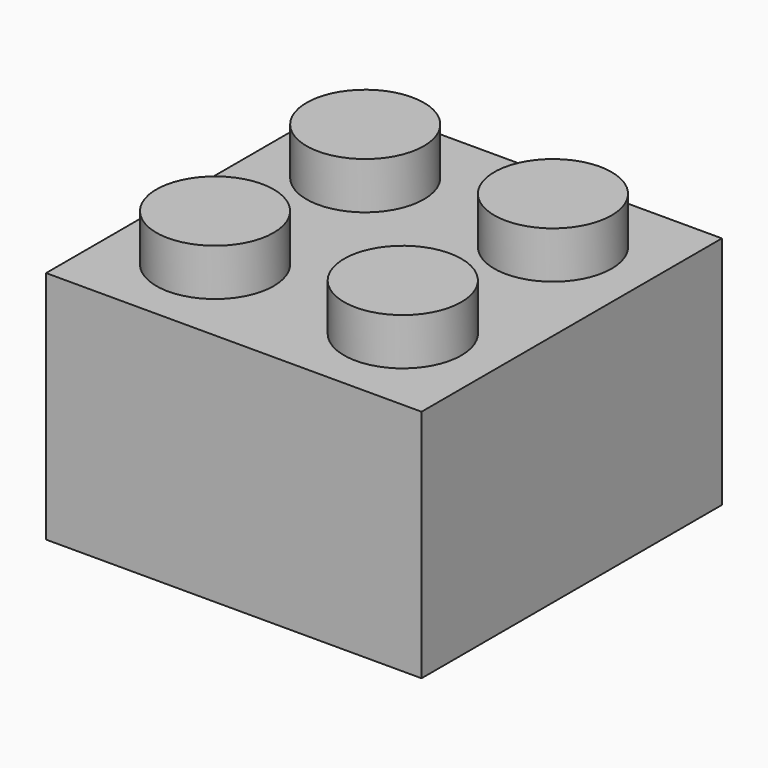
from build123d import *

# Parameters (mm, degrees)
F0_W     = 16
F0_H     = 10
F1_DEPTH = 16
F2_R     = 2.5
F3_DEPTH = 2
F5_W     = 12
F5_H     = 12
F5_R     = 3.5
F5_R_2   = 2.5
F6_DEPTH = 8
F7_R     = 1.25
F8_DEPTH = 9


with BuildPart() as f1:
    # F0 (on Front) → F1 (new body)
    with BuildSketch(Plane.XZ):
        with Locations((8, 5)):
            Rectangle(F0_W, F0_H)
    extrude(amount=F1_DEPTH)

    # F2 (on face) → F3 (join)
    with BuildSketch(Plane.XY.offset(10)):
        with Locations((4, -4)):
            Circle(F2_R)
        with Locations((12, -4)):
            Circle(F2_R)
        with Locations((4, -12)):
            Circle(F2_R)
        with Locations((12, -12)):
            Circle(F2_R)
    extrude(amount=F3_DEPTH)

    # F5 (on face) → F6 (cut)
    with BuildSketch(Plane(origin=(0, 0, 0), x_dir=(1, 0, 0), z_dir=(0, 0, -1))):
        with Locations((8, 8)):
            Rectangle(F5_W, F5_H)
        with Locations((8, 8)):
            Circle(F5_R, mode=Mode.SUBTRACT)
        with Locations((8, 8)):
            Circle(F5_R_2)
    extrude(amount=-F6_DEPTH, mode=Mode.SUBTRACT)

    # F7 (on face) → F8 (cut)
    with BuildSketch(Plane(origin=(0, 0, 0), x_dir=(1, 0, 0), z_dir=(0, 0, -1))):
        with Locations((12, 12)):
            Circle(F7_R)
        with Locations((4, 12)):
            Circle(F7_R)
        with Locations((4, 4)):
            Circle(F7_R)
        with Locations((12, 4)):
            Circle(F7_R)
    extrude(amount=-F8_DEPTH, mode=Mode.SUBTRACT)


solid = f1.part
